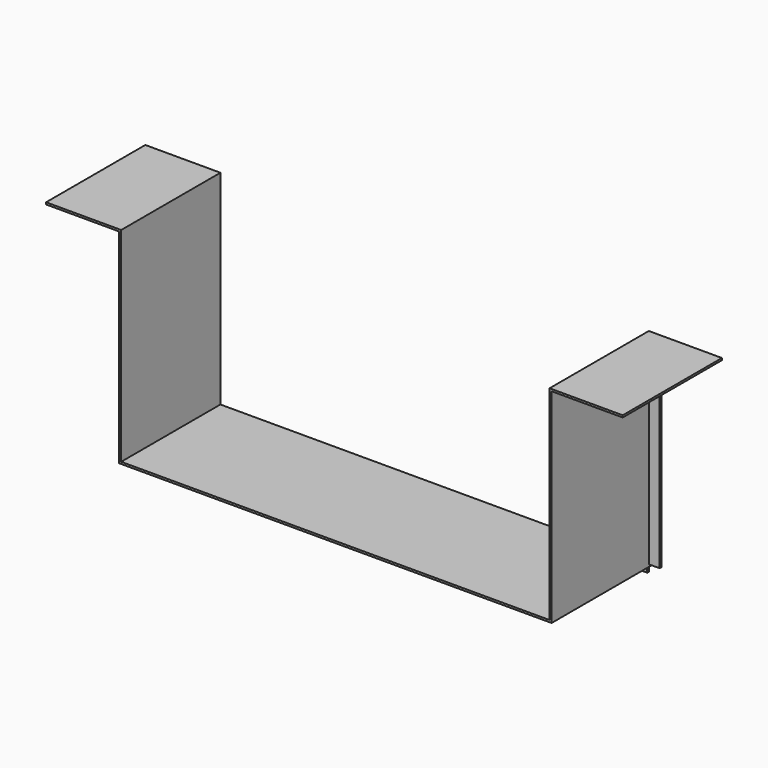
from build123d import *

# Parameters (mm, degrees)
F1_DEPTH = 126.492
F2_W     = 436.88
F2_H     = 6.1355546244
F3_DEPTH = 2.032
F4_W     = 10.668
F4_H     = 190.5
F5_DEPTH = 2.032


with BuildPart() as f1:
    # F0 (on Front) → F1 (new body)
    with BuildSketch(Plane.XZ):
        Polygon((436.88, 0), (0, 0), (0, 206.0448), (0, 208.0768), (-2.032, 208.0768), (-76.581, 208.0768), (-76.581, 206.0448), (-2.032, 206.0448), (-2.032, 0), (-2.032, -2.032), (0, -2.032), (436.88, -2.032), (438.912, -2.032), (438.912, 0), (438.912, 206.0448), (511.429, 206.0448), (511.429, 208.0768), (436.88, 208.0768), align=None)
    extrude(amount=F1_DEPTH)

    # F4 (on face) → F5 (join)
    with BuildSketch(Plane(origin=(0, 0, 0), x_dir=(-1, 0, 0), z_dir=(0, 1, 0))):
        with Locations((7.366, 95.25)):
            Rectangle(F4_W, F4_H)
        with Locations((-444.246, 95.25)):
            Rectangle(F4_W, F4_H)
    extrude(amount=-F5_DEPTH)


with BuildPart() as f3:
    # F2 (on face) → F3 (new body)
    with BuildSketch(Plane(origin=(0, 0, 0), x_dir=(-1, 0, 0), z_dir=(0, 1, 0))):
        with Locations((-218.44, -5.0997773122)):
            Rectangle(F2_W, F2_H)
    extrude(amount=-F3_DEPTH)


solid = Compound([f1.part, f3.part])
